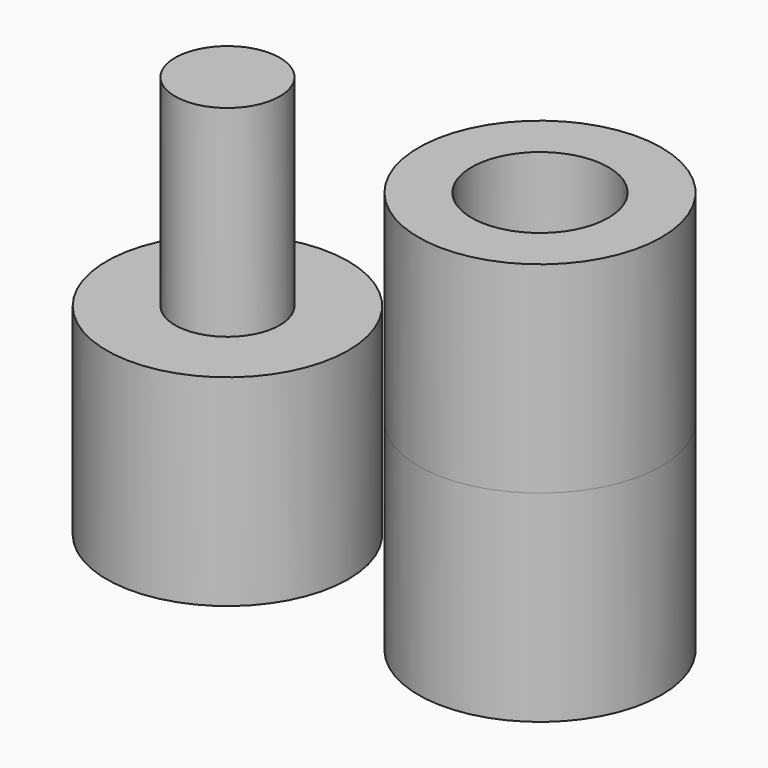
from build123d import *

# Parameters (mm, degrees)
F0_R     = 3
F0_R_2   = 1.3
F1_DEPTH = 5
F0_R_3   = 3.0160842828
F0_R_4   = 1.7
F2_DEPTH = 5


with BuildPart() as f1:
    # F0 (on Top) → F1 (new body)
    with BuildSketch(Plane.XY):
        with Locations((-33.5754850469, 0)):
            Circle(F0_R)
        with Locations((-33.5754850469, 0)):
            Circle(F0_R_2, mode=Mode.SUBTRACT)
        with Locations((-33.5754850469, 0)):
            Circle(F0_R_2)
    extrude(amount=-F1_DEPTH)


with BuildPart() as f1b:
    # F0 (on Top) → F1, piece 2 (new body)
    with BuildSketch(Plane.XY):
        with Locations((-25.8169919252, 0)):
            Circle(F0_R_3)
        with Locations((-25.8169919252, 0)):
            Circle(F0_R_4, mode=Mode.SUBTRACT)
        with Locations((-25.8169919252, 0)):
            Circle(F0_R_4)
    extrude(amount=-F1_DEPTH)


with BuildPart() as f2:
    # F0 (on Top) → F2 (new body)
    with BuildSketch(Plane.XY):
        with Locations((-25.8169919252, 0)):
            Circle(F0_R_3)
        with Locations((-25.8169919252, 0)):
            Circle(F0_R_4, mode=Mode.SUBTRACT)
    extrude(amount=F2_DEPTH)


with BuildPart() as f2b:
    # F0 (on Top) → F2, piece 2 (new body)
    with BuildSketch(Plane.XY):
        with Locations((-33.5754850469, 0)):
            Circle(F0_R_2)
    extrude(amount=F2_DEPTH)


solid = Compound([f1.part, f1b.part, f2.part, f2b.part])
